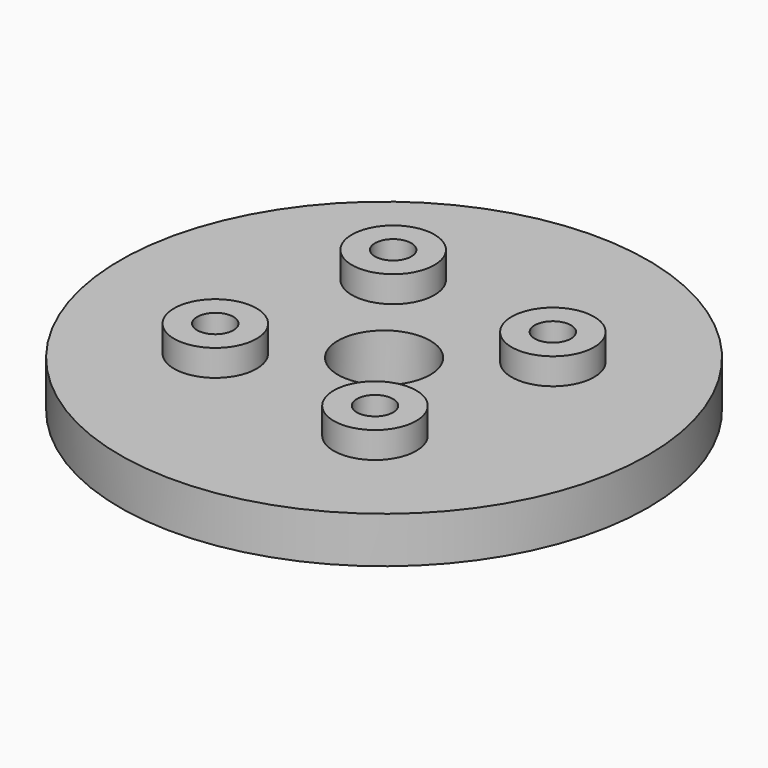
from build123d import *

# Parameters (mm, degrees)
F0_R     = 40
F0_R_2   = 6.25
F0_R_3   = 7
F1_DEPTH = 7
F0_R_4   = 2.75
F2_DEPTH = 11


with BuildPart() as f1:
    # F0 (on Top) → F1 (new body)
    with BuildSketch(Plane.XY):
        Circle(F0_R)
        with Locations((-16.267187, -11.635232)):
            Circle(F0_R_2, mode=Mode.SUBTRACT)
        with Locations((11.635232, -16.267187)):
            Circle(F0_R_2, mode=Mode.SUBTRACT)
        with Locations((-11.635232, 16.267187)):
            Circle(F0_R_2, mode=Mode.SUBTRACT)
        Circle(F0_R_3, mode=Mode.SUBTRACT)
        with Locations((16.267187, 11.635232)):
            Circle(F0_R_2, mode=Mode.SUBTRACT)
    extrude(amount=F1_DEPTH)


with BuildPart() as f2:
    # F0 (on Top) → F2 (new body)
    with BuildSketch(Plane.XY):
        with Locations((-11.635232, 16.267187)):
            Circle(F0_R_2)
        with Locations((-11.635232, 16.267187)):
            Circle(F0_R_4, mode=Mode.SUBTRACT)
        with Locations((-16.267187, -11.635232)):
            Circle(F0_R_2)
        with Locations((-16.267187, -11.635232)):
            Circle(F0_R_4, mode=Mode.SUBTRACT)
        with Locations((11.635232, -16.267187)):
            Circle(F0_R_2)
        with Locations((11.635232, -16.267187)):
            Circle(F0_R_4, mode=Mode.SUBTRACT)
        with Locations((16.267187, 11.635232)):
            Circle(F0_R_2)
        with Locations((16.267187, 11.635232)):
            Circle(F0_R_4, mode=Mode.SUBTRACT)
    extrude(amount=F2_DEPTH)


solid = Compound([f1.part, f2.part])
